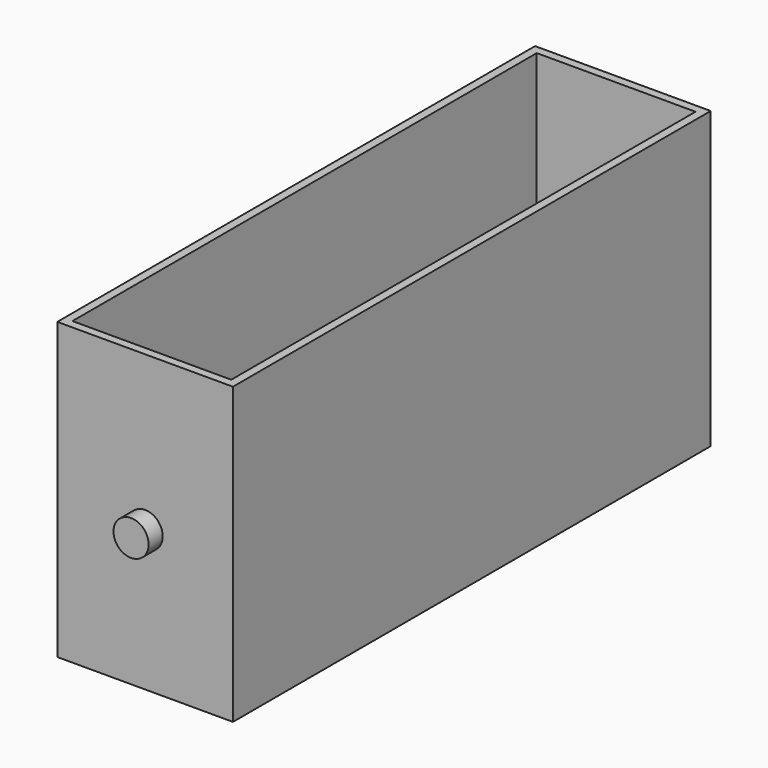
from build123d import *

# Parameters (mm, degrees)
F0_W     = 250
F0_H     = 850
F1_DEPTH = 12
F2_W     = 250
F2_H     = 850
F2_W_2   = 226
F2_H_2   = 826
F3_DEPTH = 408
F4_R     = 25
F5_DEPTH = 25


with BuildPart() as f1:
    # F0 (on Top) → F1 (new body)
    with BuildSketch(Plane.XY):
        with Locations((125, -425)):
            Rectangle(F0_W, F0_H)
    extrude(amount=F1_DEPTH)

    # F2 (on face) → F3 (join)
    with BuildSketch(Plane.XY.offset(12)):
        with Locations((125, -425)):
            Rectangle(F2_W, F2_H)
        with Locations((125, -425)):
            Rectangle(F2_W_2, F2_H_2, mode=Mode.SUBTRACT)
    extrude(amount=F3_DEPTH)

    # F4 (on face) → F5 (join)
    with BuildSketch(Plane.XZ.offset(850)):
        with Locations((125, 200)):
            Circle(F4_R)
    extrude(amount=F5_DEPTH)


solid = f1.part
